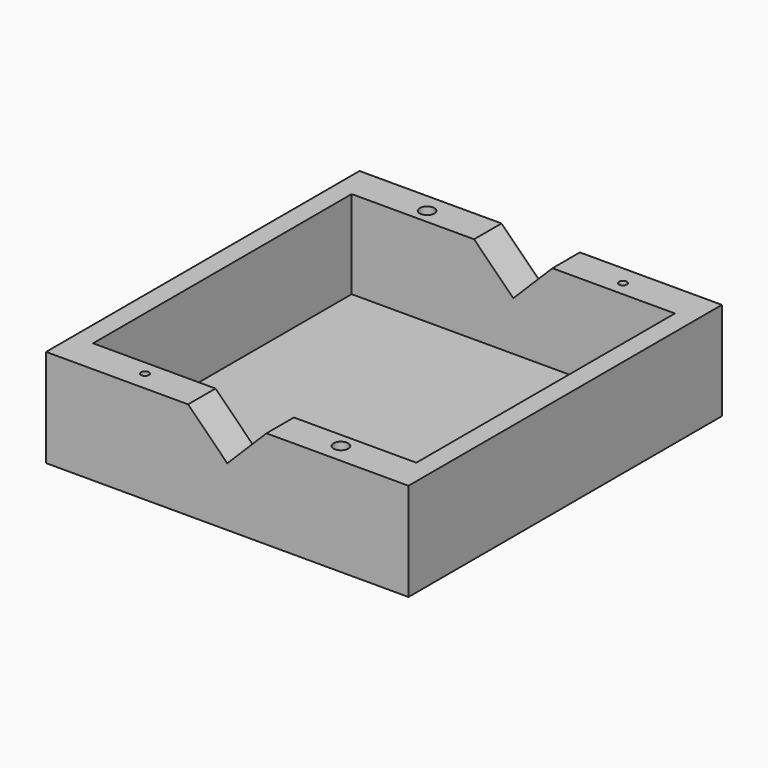
from build123d import *

# Parameters (mm, degrees)
SKETCH_W        = 37
SKETCH_H        = 40
PAD_DEPTH       = 10
SKETCH001_W     = 33
SKETCH001_H     = 33
POCKET_DEPTH    = 9
POCKET001_DEPTH = 40.001
SKETCH003_R     = 0.75
SKETCH003_R_2   = 0.4
POCKET002_DEPTH = 10.001


with BuildPart() as part:
    # Sketch → Pad (new body)
    with BuildSketch(Plane.XY):
        Rectangle(SKETCH_W, SKETCH_H)
    extrude(amount=PAD_DEPTH)

    # Sketch001 (on Face6 of Pad) → Pocket (cut)
    with BuildSketch(Plane.XY.offset(10)):
        Rectangle(SKETCH001_W, SKETCH001_H)
    extrude(amount=-POCKET_DEPTH, mode=Mode.SUBTRACT)

    # Sketch002 (on Face1 of Pocket) → Pocket001 (cut, through all)
    with BuildSketch(Plane(origin=(0, 20, 0), x_dir=(-1, 0, 0), z_dir=(0, 1, 0))):
        Polygon((14.424978, 20.424978), (0, 6), (-14.424978, 20.424978), align=None)
    extrude(amount=-POCKET001_DEPTH, mode=Mode.SUBTRACT)

    # Sketch003 (on Face7 of Pocket001) → Pocket002 (cut, through all)
    with BuildSketch(Plane.XY.offset(10)):
        with Locations((-10, 18)):
            Circle(SKETCH003_R)
        with Locations((10, 18)):
            Circle(SKETCH003_R_2)
        with Locations((-10, -18)):
            Circle(SKETCH003_R_2)
        with Locations((10, -18)):
            Circle(SKETCH003_R)
    extrude(amount=-POCKET002_DEPTH, mode=Mode.SUBTRACT)


solid = part.part
